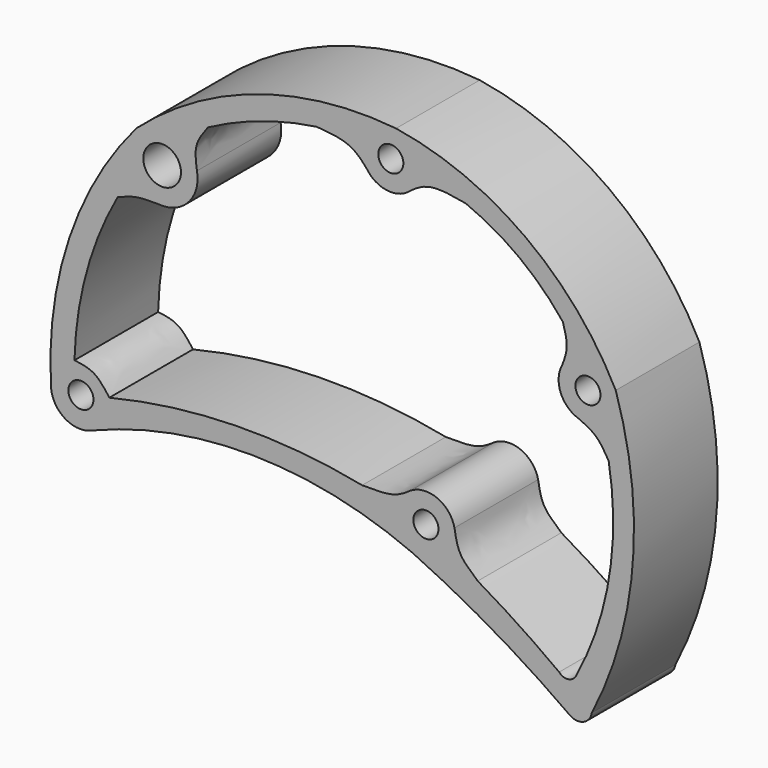
from build123d import *

# Parameters (mm, degrees)
F0_R     = 3
F0_R_2   = 4.5
F1_DEPTH = 25


with BuildPart() as f1:
    # F0 (on Front) → F1 (new body)
    with BuildSketch(Plane.XZ):
        with BuildLine():
            ThreePointArc((10.9026810919, 60.0256923786), (-22.2558754476, 56.4666978044), (-51.1818335692, 39.870154161))
            ThreePointArc((-51.1818335692, 39.870154161), (-67.2310606154, 11.5408714989), (-71.6096891644, -20.7229403799))
            ThreePointArc((-71.6096891644, -20.7229403799), (-68.3273517642, -26.7421593589), (-61.4792606521, -27.0713766838))
            ThreePointArc((-61.4792606521, -27.0713766838), (-23.2487235956, -19.9089821225), (14.7948054645, -28.00612706))
            ThreePointArc((14.7948054645, -28.00612706), (34.09763812, -38.0650715452), (52.3656483576, -49.8998302939))
            ThreePointArc((52.3656483576, -49.8998302939), (55.6232730928, -50.3420263302), (57.6954634801, -47.7898344783))
            ThreePointArc((57.6954634801, -47.7898344783), (67.4841016349, -13.4719946795), (63.4264131289, 21.9831421749))
            ThreePointArc((63.4264131289, 21.9831421749), (41.7291215347, 47.3065311635), (10.9026810919, 60.0256923786))
        make_face()
        with Locations((-64.4427245231, -20.592329134)):
            Circle(F0_R, mode=Mode.SUBTRACT)
        with Locations((18.0438014374, -21.0330026143)):
            Circle(F0_R, mode=Mode.SUBTRACT)
        with Locations((-45.0222906279, 34.0597224955)):
            Circle(F0_R_2, mode=Mode.SUBTRACT)
        with BuildLine():
            add(Edge.make_bspline(
                [(-65.9818429495, -13.7766383887), (-64.3561406503, -13.9889919324), (-61.002475647, -14.4129805983), (-58.786662695, -17.3941098492), (-57.6425891256, -18.9315586575)],
                knots=[0, 0, 0, 0, 0.4837523045, 1, 1, 1, 1], degree=3))
            ThreePointArc((-65.9818429495, -13.7766383887), (-63.1199927656, 5.6889897511), (-55.6653674819, 23.8969393125))
            add(Edge.make_bspline(
                [(-55.6653674819, 23.8969393125), (-54.1157834703, 24.558722907), (-50.9743628562, 25.897077509), (-44.9169668051, 25.5411930836), (-44.499564984, 25.5987820264), (-44.4126954758, 25.6059592173)],
                knots=[0, 0, 0, 0, 0.4368464907, 0.8829086428, 1, 1, 1, 1], degree=3))
            ThreePointArc((-44.4126954758, 25.6059592173), (-38.3027773263, 28.8742935487), (-36.6900921562, 35.6131625664))
            add(Edge.make_bspline(
                [(-34.08346527, 45.6139450583), (-35.2318735073, 44.1052978146), (-37.495431158, 41.0832942182), (-36.9568434928, 37.4300314786), (-36.6900921562, 35.6131625664)],
                knots=[0, 0, 0, 0, 0.5034654691, 1, 1, 1, 1], degree=3))
            ThreePointArc((-34.08346527, 45.6139450583), (-21.4497726915, 51.0485334301), (-8.0636271487, 54.2038537692))
            add(Edge.make_bspline(
                [(-8.0636271487, 54.2038537692), (-5.1314488098, 53.9873966847), (0.3914162184, 53.5818086349), (3.3084081042, 49.9752607352), (4.6788664975, 48.2869338255)],
                knots=[0, 0, 0, 0, 0.5311112281, 1, 1, 1, 1], degree=3))
            ThreePointArc((4.6788664975, 48.2869338255), (8.9267083452, 46.2578656633), (13.5002491076, 47.3732144268))
            add(Edge.make_bspline(
                [(27.5275195375, 49.6756181297), (24.3589504651, 50.2644097694), (18.5753078163, 51.2779486411), (15.0780756623, 48.5877160028), (13.5002491076, 47.3732144268)],
                knots=[0, 0, 0, 0, 0.5497885765, 1, 1, 1, 1], degree=3))
            ThreePointArc((27.5275195375, 49.6756181297), (40.3031395338, 42.4916724249), (50.800144894, 32.2623801401))
            add(Edge.make_bspline(
                [(50.800144894, 32.2623801401), (51.3048604695, 30.5691603197), (52.2209505288, 27.262036777), (51.106083954, 24.3879103118), (50.5611791748, 22.9987592368)],
                knots=[0, 0, 0, 0, 0.5176067222, 1, 1, 1, 1], degree=3))
            ThreePointArc((50.5611791748, 22.9987592368), (50.2536306678, 17.192161847), (54.4628675293, 13.1804933194))
            add(Edge.make_bspline(
                [(61.7354629672, 6.576572241), (60.8612124825, 8.1098386582), (59.0540175823, 11.1146660647), (55.9863654121, 12.4994575374), (54.4628675293, 13.1804933194)],
                knots=[0, 0, 0, 0, 0.5060903587, 1, 1, 1, 1], degree=3))
            ThreePointArc((61.7354629672, 6.576572241), (61.8532031721, -17.8580596689), (54.0168535043, -41.0023186376))
            ThreePointArc((54.0168535043, -41.0023186376), (52.1556490377, -42.5112346478), (49.8949177563, -41.7175069451))
            ThreePointArc((49.8949177563, -41.7175069451), (40.3376909972, -35.0336152353), (30.4260621775, -28.8875103016))
            add(Edge.make_bspline(
                [(30.4260621775, -28.8875103016), (28.8541001513, -27.5081560411), (25.7225858464, -24.9527524994), (25.163523259, -21.2699310006), (24.8738721868, -19.4999880815)],
                knots=[0, 0, 0, 0, 0.5153021573, 1, 1, 1, 1], degree=3))
            ThreePointArc((24.8738721868, -19.4999880815), (20.7454507325, -14.5683653438), (14.3355783244, -15.0959089361))
            add(Edge.make_bspline(
                [(2.7973287746, -17.7149148802), (5.5242069664, -17.7559248974), (10.3675947849, -17.828765488), (13.1289117857, -15.9269725037), (14.3355783244, -15.0959089361)],
                knots=[0, 0, 0, 0, 0.5630104988, 1, 1, 1, 1], degree=3))
            ThreePointArc((2.7973287746, -17.7149148802), (-27.4894908213, -15.0017617251), (-57.6425891256, -18.9315586575))
        make_face(mode=Mode.SUBTRACT)
        with Locations((56.7802422866, 19.7857771311)):
            Circle(F0_R, mode=Mode.SUBTRACT)
        with Locations((9.6443155061, 53.228250787)):
            Circle(F0_R, mode=Mode.SUBTRACT)
    extrude(amount=F1_DEPTH)


solid = f1.part
